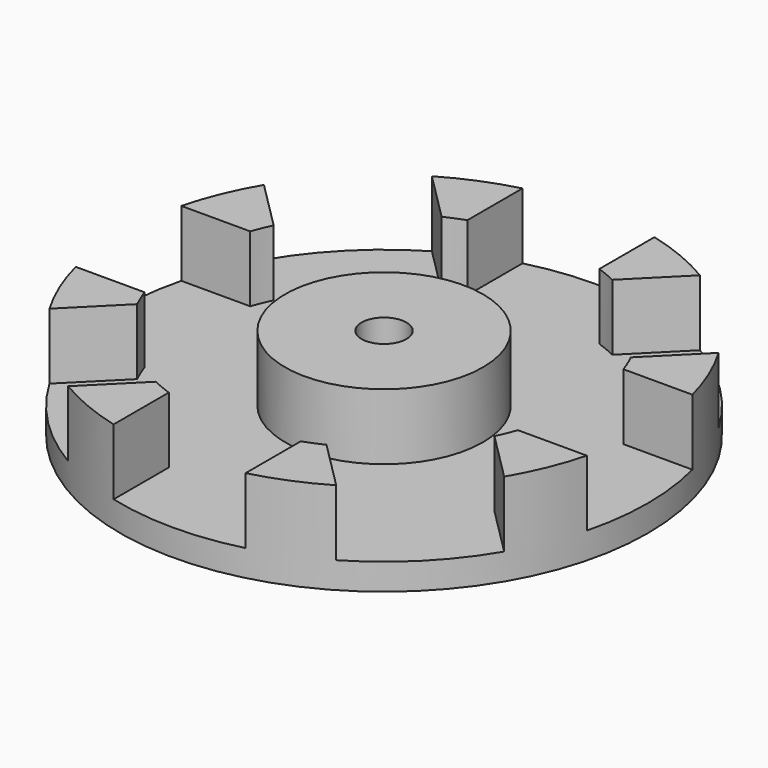
from build123d import *

# Parameters (mm, degrees)
F0_R     = 20
F0_R_2   = 1.7
F1_DEPTH = 2
F2_R     = 20
F2_R_2   = 15
F2_R_3   = 7.5
F2_R_4   = 1.7
F3_DEPTH = 5
F4_W     = 10
F4_H     = 10
F5_DEPTH = 5
F6_R     = 1.7
F7_DEPTH = 2.6


with BuildPart() as f1:
    # F0 (on Top) → F1 (new body)
    with BuildSketch(Plane.XY):
        Circle(F0_R)
        Circle(F0_R_2, mode=Mode.SUBTRACT)
    extrude(amount=F1_DEPTH)

    # F2 (on face) → F3 (join)
    with BuildSketch(Plane.XY.offset(2)):
        Circle(F2_R)
        Circle(F2_R_2, mode=Mode.SUBTRACT)
        Circle(F2_R_3)
        Circle(F2_R_4, mode=Mode.SUBTRACT)
    extrude(amount=F3_DEPTH)

    # F4 (on face) → F5 (cut, through all)
    with BuildSketch(Plane.XY.offset(7)):
        with Locations((-18, 0)):
            Rectangle(F4_W, F4_H)
        Polygon((-12.7279220614, -5.6568542495), (-19.7989898732, -12.7279220614), (-12.7279220614, -19.7989898732), (-5.6568542495, -12.7279220614), align=None)
        with Locations((0, -18)):
            Rectangle(F4_W, F4_H)
        Polygon((5.6568542495, -12.7279220614), (12.7279220614, -19.7989898732), (19.7989898732, -12.7279220614), (12.7279220614, -5.6568542495), align=None)
        with Locations((18, 0)):
            Rectangle(F4_W, F4_H)
        Polygon((12.7279220614, 5.6568542495), (19.7989898732, 12.7279220614), (12.7279220614, 19.7989898732), (5.6568542495, 12.7279220614), align=None)
        with Locations((0, 18)):
            Rectangle(F4_W, F4_H)
        Polygon((-5.6568542495, 12.7279220614), (-12.7279220614, 19.7989898732), (-19.7989898732, 12.7279220614), (-12.7279220614, 5.6568542495), align=None)
    extrude(amount=-F5_DEPTH, mode=Mode.SUBTRACT)

    # F6 (on face) → F7 (cut)
    with BuildSketch(Plane(origin=(0, 0, 0), x_dir=(1, 0, 0), z_dir=(0, 0, -1))):
        Polygon((2.95, -1.7031832941), (2.95, 1.7031832941), (0, 3.4063665882), (-2.95, 1.7031832941), (-2.95, -1.7031832941), (0, -3.4063665882), align=None)
        Circle(F6_R, mode=Mode.SUBTRACT)
    extrude(amount=-F7_DEPTH, mode=Mode.SUBTRACT)


solid = f1.part
